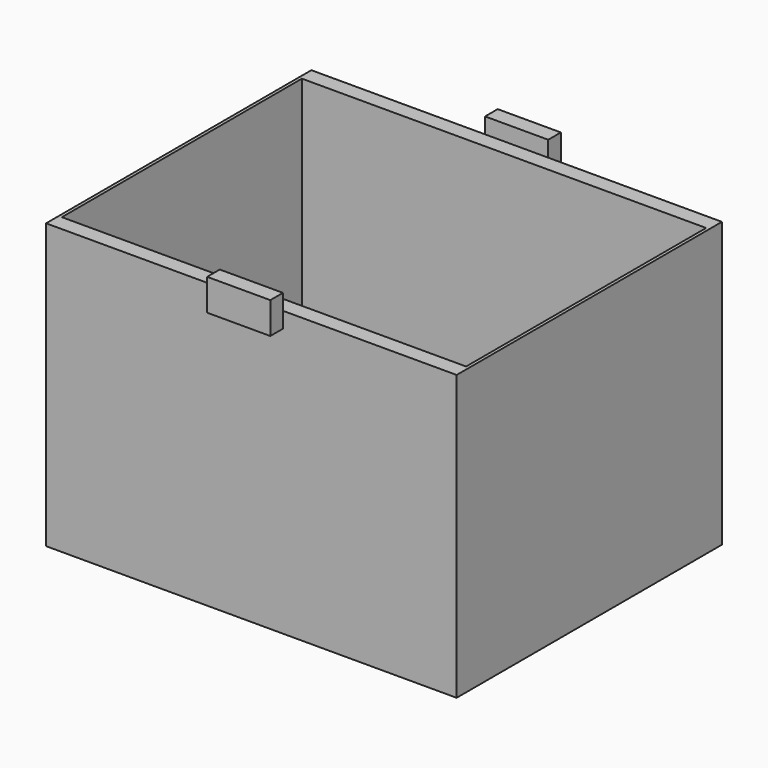
from build123d import *

# Parameters (mm, degrees)
F0_W     = 330.2
F0_H     = 228.6
F1_DEPTH = 12.7
F3_DEPTH = 241.3
F5_DEPTH = 12.7
F6_W     = 50.8
F6_H     = 12.7
F7_DEPTH = 12.7
F8_W     = 50.8
F8_H     = 12.7
F9_DEPTH = 12.7


with BuildPart() as f1:
    # F0 (on Front) → F1 (new body)
    with BuildSketch(Plane.XZ):
        Rectangle(F0_W, F0_H)
    extrude(amount=F1_DEPTH)

    # F2 (on face) → F3 (join)
    with BuildSketch(Plane.XZ.offset(12.7)):
        Polygon((-162.56, -111.76), (-162.56, 114.3), (-165.1, 114.3), (-165.1, -114.3), (165.1, -114.3), (165.1, 114.3), (162.56, 114.3), (162.56, -111.76), align=None)
    extrude(amount=F3_DEPTH)

    # F4 (on face) → F5 (join)
    with BuildSketch(Plane.XZ.offset(254)):
        Polygon((-162.56, 114.3), (-165.1, 114.3), (-165.1, -114.3), (165.1, -114.3), (165.1, 114.3), align=None)
        Polygon((-162.56, 114.3), (-165.1, 114.3), (-165.1, -114.3), (165.1, -114.3), (165.1, 114.3), align=None)
    extrude(amount=F5_DEPTH)

    # F6 (on face) → F7 (join)
    with BuildSketch(Plane.XZ.offset(266.7)):
        with Locations((0, 120.65)):
            Rectangle(F6_W, F6_H)
        with Locations((0, 107.95)):
            Rectangle(F6_W, F6_H)
    extrude(amount=F7_DEPTH)

    # F8 (on face) → F9 (join)
    with BuildSketch(Plane(origin=(0, 0, 0), x_dir=(-1, 0, 0), z_dir=(0, 1, 0))):
        with Locations((0, 107.95)):
            Rectangle(F8_W, F8_H)
        with Locations((0, 120.65)):
            Rectangle(F8_W, F8_H)
    extrude(amount=F9_DEPTH)


solid = f1.part
